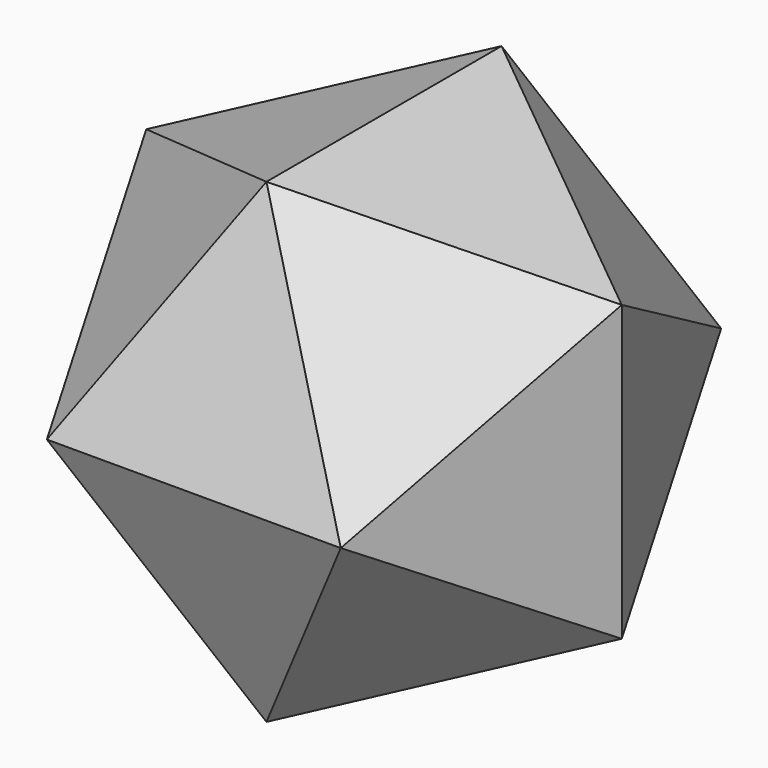
from build123d import *

# Parameters (mm, degrees)
F7_R      = 29.3293936748
F8_DEPTH  = 9.9209962727
F10_R     = 29.3293936748
F11_DEPTH = 9.9209962727
F13_R     = 29.3293936748
F14_DEPTH = 9.9209962727
F16_R     = 29.3293936748
F17_DEPTH = 9.9209962727
F19_R     = 29.3293936748
F20_DEPTH = 9.9209962727
F22_R     = 29.3293936748
F23_DEPTH = 9.9209962727
F25_R     = 29.3293936748
F26_DEPTH = 9.9209962727
F28_R     = 29.3293936748
F29_DEPTH = 9.9209962727
F31_R     = 29.3293936748
F32_DEPTH = 9.9209962727
F34_R     = 29.3293936748
F35_DEPTH = 9.9209962727
F37_R     = 29.3293936748
F38_DEPTH = 9.9209962727
F40_R     = 29.3293936748
F41_DEPTH = 9.9209962727
F43_R     = 29.3293936748
F44_DEPTH = 9.9209962727
F46_R     = 29.3293936748
F47_DEPTH = 9.9209962727
F49_R     = 29.3293936748
F50_DEPTH = 9.9209962727
F52_R     = 29.3293936748
F53_DEPTH = 9.9209962727
F55_R     = 29.3293936748
F56_DEPTH = 9.9209962727
F58_R     = 29.3293936748
F59_DEPTH = 9.9209962727
F61_R     = 29.3293936748
F64_DEPTH = 9.9209962727
F63_R     = 29.3293936748
F65_DEPTH = 9.9209962727


with BuildPart() as f3:
    # F1 (on Front) → F3 (revolve)
    with BuildSketch(Plane.XZ):
        with BuildLine():
            Line((0, 48.3136710278), (0, -48.3136710278))
            ThreePointArc((0, -48.3136710278), (48.3136710278, 0), (0, 48.3136710278))
        make_face()
    revolve(axis=Axis((0, 0, 56.2952049077), (0, 0, 1)))

    # F7 (on 3pt) → F8 (cut, through all)
    with BuildSketch(Plane(origin=(13.6993544381, 0, 35.8653755428), x_dir=(0.934172359, 0, -0.3568220898), z_dir=(-0.3568220898, 0, -0.934172359))):
        Circle(F7_R)
    extrude(amount=-F8_DEPTH, mode=Mode.SUBTRACT)

    # F10 (on 3pt) → F11 (cut, through all)
    with BuildSketch(Plane(origin=(-13.6993544381, 0, 35.8653755428), x_dir=(0.934172359, 0, 0.3568220898), z_dir=(0.3568220898, 0, -0.934172359))):
        Circle(F10_R)
    extrude(amount=-F11_DEPTH, mode=Mode.SUBTRACT)

    # F13 (on 3pt) → F14 (cut, through all)
    with BuildSketch(Plane(origin=(-22.1660211047, -22.1660211047, 22.1660211047), x_dir=(0.8164965809, -0.4082482905, 0.4082482905), z_dir=(-0.5773502692, -0.5773502692, 0.5773502692))):
        Circle(F13_R)
    extrude(amount=F14_DEPTH, mode=Mode.SUBTRACT)

    # F16 (on 3pt) → F17 (cut, through all)
    with BuildSketch(Plane(origin=(0, -35.8653755428, 13.6993544381), x_dir=(1, 0, 0), z_dir=(0, -0.934172359, 0.3568220898))):
        Circle(F16_R)
    extrude(amount=F17_DEPTH, mode=Mode.SUBTRACT)

    # F19 (on 3pt) → F20 (cut, through all)
    with BuildSketch(Plane(origin=(22.1660211047, -22.1660211047, 22.1660211047), x_dir=(0.8164965809, 0.4082482905, -0.4082482905), z_dir=(0.5773502692, -0.5773502692, 0.5773502692))):
        Circle(F19_R)
    extrude(amount=F20_DEPTH, mode=Mode.SUBTRACT)

    # F22 (on 3pt) → F23 (cut, through all)
    with BuildSketch(Plane(origin=(22.1660211047, 22.1660211047, 22.1660211047), x_dir=(-0.8164965809, 0.4082482905, 0.4082482905), z_dir=(0.5773502692, 0.5773502692, 0.5773502692))):
        Circle(F22_R)
    extrude(amount=F23_DEPTH, mode=Mode.SUBTRACT)

    # F25 (on 3pt) → F26 (cut, through all)
    with BuildSketch(Plane(origin=(0, 35.8653755428, 13.6993544381), x_dir=(1, 0, 0), z_dir=(0, -0.934172359, -0.3568220898))):
        Circle(F25_R)
    extrude(amount=-F26_DEPTH, mode=Mode.SUBTRACT)

    # F28 (on 3pt) → F29 (cut, through all)
    with BuildSketch(Plane(origin=(-22.1660211047, 22.1660211047, 22.1660211047), x_dir=(-0.8164965809, -0.4082482905, -0.4082482905), z_dir=(-0.5773502692, 0.5773502692, 0.5773502692))):
        Circle(F28_R)
    extrude(amount=F29_DEPTH, mode=Mode.SUBTRACT)

    # F31 (on 3pt) → F32 (cut, through all)
    with BuildSketch(Plane(origin=(35.8653755428, -13.6993544381, 0), x_dir=(-0.3568220898, -0.934172359, 0), z_dir=(-0.934172359, 0.3568220898, 0))):
        Circle(F31_R)
    extrude(amount=-F32_DEPTH, mode=Mode.SUBTRACT)

    # F34 (on 3pt) → F35 (cut, through all)
    with BuildSketch(Plane(origin=(35.8653755428, 13.6993544381, 0), x_dir=(0.3568220898, -0.934172359, 0), z_dir=(-0.934172359, -0.3568220898, 0))):
        Circle(F34_R)
    extrude(amount=-F35_DEPTH, mode=Mode.SUBTRACT)

    # F37 (on 3pt) → F38 (cut, through all)
    with BuildSketch(Plane(origin=(-35.8653755428, -13.6993544381, 0), x_dir=(-0.3568220898, 0.934172359, 0), z_dir=(0.934172359, 0.3568220898, 0))):
        Circle(F37_R)
    extrude(amount=-F38_DEPTH, mode=Mode.SUBTRACT)

    # F40 (on 3pt) → F41 (cut, through all)
    with BuildSketch(Plane(origin=(-35.8653755428, 13.6993544381, 0), x_dir=(0.3568220898, 0.934172359, 0), z_dir=(0.934172359, -0.3568220898, 0))):
        Circle(F40_R)
    extrude(amount=-F41_DEPTH, mode=Mode.SUBTRACT)

    # F43 (on 3pt) → F44 (cut, through all)
    with BuildSketch(Plane(origin=(-22.1660211047, 22.1660211047, -22.1660211047), x_dir=(0.8164965809, 0.4082482905, -0.4082482905), z_dir=(0.5773502692, -0.5773502692, 0.5773502692))):
        Circle(F43_R)
    extrude(amount=-F44_DEPTH, mode=Mode.SUBTRACT)

    # F46 (on 3pt) → F47 (cut, through all)
    with BuildSketch(Plane(origin=(0, 35.8653755428, -13.6993544381), x_dir=(1, 0, 0), z_dir=(0, -0.934172359, 0.3568220898))):
        Circle(F46_R)
    extrude(amount=-F47_DEPTH, mode=Mode.SUBTRACT)

    # F49 (on 3pt) → F50 (cut, through all)
    with BuildSketch(Plane(origin=(22.1660211047, 22.1660211047, -22.1660211047), x_dir=(0.8164965809, -0.4082482905, 0.4082482905), z_dir=(-0.5773502692, -0.5773502692, 0.5773502692))):
        Circle(F49_R)
    extrude(amount=-F50_DEPTH, mode=Mode.SUBTRACT)

    # F52 (on 3pt) → F53 (cut, through all)
    with BuildSketch(Plane(origin=(22.1660211047, -22.1660211047, -22.1660211047), x_dir=(-0.8164965809, -0.4082482905, -0.4082482905), z_dir=(-0.5773502692, 0.5773502692, 0.5773502692))):
        Circle(F52_R)
    extrude(amount=-F53_DEPTH, mode=Mode.SUBTRACT)

    # F55 (on 3pt) → F56 (cut, through all)
    with BuildSketch(Plane(origin=(13.6993544381, 0, -35.8653755428), x_dir=(0.934172359, 0, 0.3568220898), z_dir=(-0.3568220898, 0, 0.934172359))):
        Circle(F55_R)
    extrude(amount=-F56_DEPTH, mode=Mode.SUBTRACT)

    # F58 (on 3pt) → F59 (cut, through all)
    with BuildSketch(Plane(origin=(0, -35.8653755428, -13.6993544381), x_dir=(-1, 0, 0), z_dir=(0, 0.934172359, 0.3568220898))):
        Circle(F58_R)
    extrude(amount=-F59_DEPTH, mode=Mode.SUBTRACT)

    # F61 (on 3pt) → F64 (cut, through all)
    with BuildSketch(Plane(origin=(-13.6993544381, 0, -35.8653755428), x_dir=(0.934172359, 0, -0.3568220898), z_dir=(0.3568220898, 0, 0.934172359))):
        Circle(F61_R)
    extrude(amount=-F64_DEPTH, mode=Mode.SUBTRACT)

    # F63 (on 3pt) → F65 (cut, through all)
    with BuildSketch(Plane(origin=(-22.1660211047, -22.1660211047, -22.1660211047), x_dir=(0.8164965809, -0.4082482905, -0.4082482905), z_dir=(-0.5773502692, -0.5773502692, -0.5773502692))):
        Circle(F63_R)
    extrude(amount=F65_DEPTH, mode=Mode.SUBTRACT)


solid = f3.part
